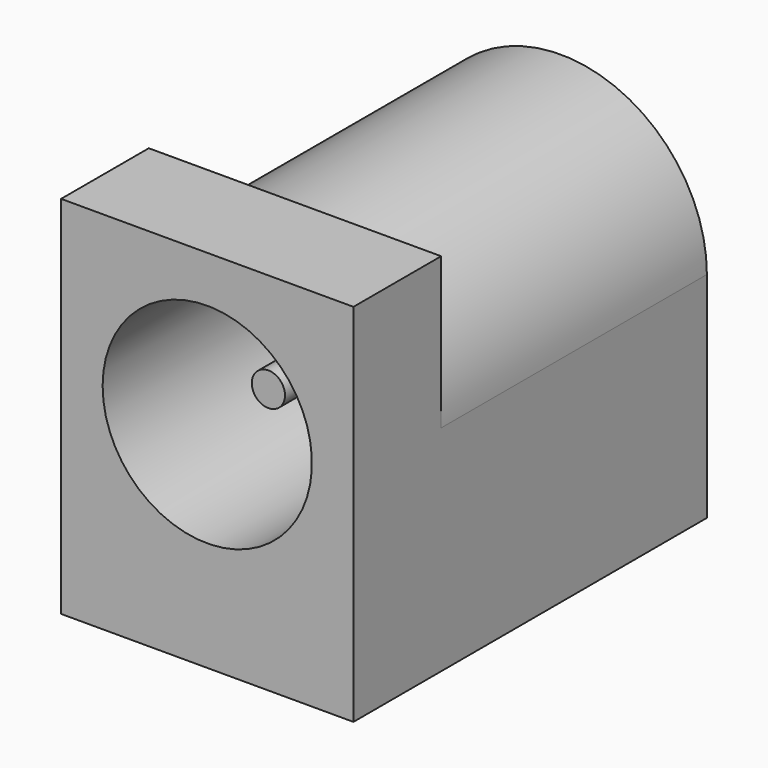
from build123d import *

# Parameters (mm, degrees)
SKETCH002_W  = 8.8
SKETCH002_H  = 11
SKETCH002_R  = 3.15
PAD068_DEPTH = 3.3
SKETCH003_R  = 3.15
PAD069_DEPTH = 9
PAD070_DEPTH = 1
SKETCH005_R  = 0.5
PAD071_DEPTH = 10


with BuildPart() as part:
    # Sketch002 → Pad068 (new body)
    with BuildSketch(Plane(origin=(0, -6.3, 0), x_dir=(-1, 0, 0), z_dir=(0, 1, 0))):
        with Locations((0, 5.5)):
            Rectangle(SKETCH002_W, SKETCH002_H)
        with Locations((0, 6.45)):
            Circle(SKETCH002_R, mode=Mode.SUBTRACT)
    extrude(amount=PAD068_DEPTH)

    # Sketch003 → Pad069 (join)
    with BuildSketch(Plane(origin=(0, -3, 0), x_dir=(-1, 0, 0), z_dir=(0, 1, 0))):
        with BuildLine():
            Line((4.4, 0), (-4.4, 0))
            Line((-4.4, 0), (-4.4, 6.45))
            ThreePointArc((4.4, 6.45), (0, 10.85), (-4.4, 6.45))
            Line((4.4, 6.45), (4.4, 0))
        make_face()
        with Locations((0, 6.45)):
            Circle(SKETCH003_R, mode=Mode.SUBTRACT)
    extrude(amount=PAD069_DEPTH)

    # Sketch004 → Pad070 (join)
    with BuildSketch(Plane(origin=(0, 6, 0), x_dir=(-1, 0, 0), z_dir=(0, 1, 0))):
        with BuildLine():
            Line((4.4, 0), (-4.4, 0))
            Line((-4.4, 0), (-4.4, 6.45))
            ThreePointArc((4.4, 6.45), (0, 10.85), (-4.4, 6.45))
            Line((4.4, 0), (4.4, 6.45))
        make_face()
    extrude(amount=PAD070_DEPTH)

    # Sketch005 → Pad071 (join)
    with BuildSketch(Plane(origin=(0, 6, 0), x_dir=(-1, 0, 0), z_dir=(0, 1, 0))):
        with Locations((0, 6.45)):
            Circle(SKETCH005_R)
    extrude(amount=-PAD071_DEPTH)


with BuildPart() as part_1:
    # Body001 placement: moved
    add(part.part.moved(Location((-39.5, 0, 0))))


solid = part_1.part
